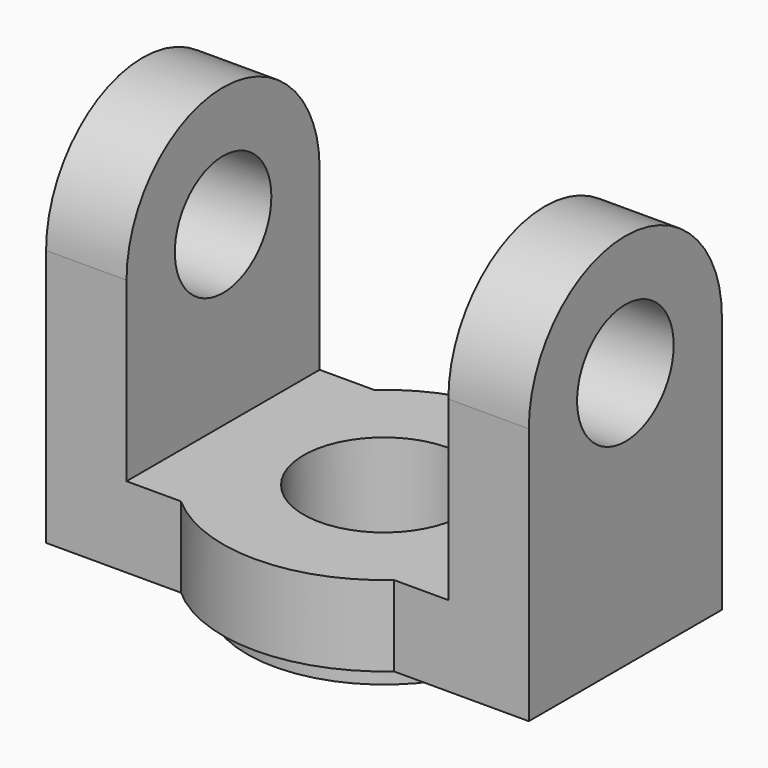
from build123d import *

# Parameters (mm, degrees)
F0_R     = 10
F1_DEPTH = 50
F2_W     = 13
F2_H     = 3
F2_W_2   = 40
F2_H_2   = 37
F3_DEPTH = 37.5
F5_DEPTH = 3
F6_R     = 7.5
F7_DEPTH = 60.001


with BuildPart() as f1:
    # F0 (on Top) → F1 (new body)
    with BuildSketch(Plane.XY):
        with BuildLine():
            ThreePointArc((13.2287565553, 15), (0, 20), (-13.2287565553, 15))
            Line((-13.2287565553, 15), (13.2287565553, 15))
        make_face()
        Polygon((-30, -15), (-13.2287565553, -15), (13.2287565553, -15), (30, -15), (30, 15), (13.2287565553, 15), (-13.2287565553, 15), (-30, 15), align=None)
        Circle(F0_R, mode=Mode.SUBTRACT)
        with BuildLine():
            Line((13.2287565553, -15), (-13.2287565553, -15))
            ThreePointArc((-13.2287565553, -15), (0, -20), (13.2287565553, -15))
        make_face()
    extrude(amount=F1_DEPTH)

    # F2 (on Front) → F3 (cut, symmetric)
    with BuildSketch(Plane.XZ):
        with Locations((23.5, 1.5)):
            Rectangle(F2_W, F2_H)
        with Locations((0, 31.5)):
            Rectangle(F2_W_2, F2_H_2)
        with Locations((-23.5, 1.5)):
            Rectangle(F2_W, F2_H)
    extrude(amount=F3_DEPTH, both=True, mode=Mode.SUBTRACT)

    # F4 (on face) → F5 (cut)
    with BuildSketch(Plane(origin=(0, 0, 0), x_dir=(1, 0, 0), z_dir=(0, 0, -1))):
        with BuildLine():
            ThreePointArc((-17, 0), (0, 17), (17, 0))
            Line((17, 0), (17, 15))
            Line((17, 15), (13.2287565553, 15))
            ThreePointArc((13.2287565553, 15), (0, 20), (-13.2287565553, 15))
            Line((-13.2287565553, 15), (-17, 15))
            Line((-17, 15), (-17, 0))
        make_face()
        with BuildLine():
            Line((17, -15), (17, 0))
            ThreePointArc((17, 0), (0, -17), (-17, 0))
            Line((-17, 0), (-17, -15))
            Line((-17, -15), (-13.2287565553, -15))
            ThreePointArc((-13.2287565553, -15), (0, -20), (13.2287565553, -15))
            Line((13.2287565553, -15), (17, -15))
        make_face()
    extrude(amount=-F5_DEPTH, mode=Mode.SUBTRACT)

    # F6 (on face) → F7 (cut, through all)
    with BuildSketch(Plane.YZ.offset(30)):
        with Locations((0, 35)):
            Circle(F6_R)
        with BuildLine():
            ThreePointArc((-15, 35), (-10.6066017178, 45.6066017178), (0, 50))
            Line((0, 50), (-15, 50))
            Line((-15, 50), (-15, 35))
        make_face()
        with BuildLine():
            ThreePointArc((0, 50), (10.6066017178, 45.6066017178), (15, 35))
            Line((15, 35), (15, 50))
            Line((15, 50), (0, 50))
        make_face()
    extrude(amount=-F7_DEPTH, mode=Mode.SUBTRACT)


solid = f1.part
